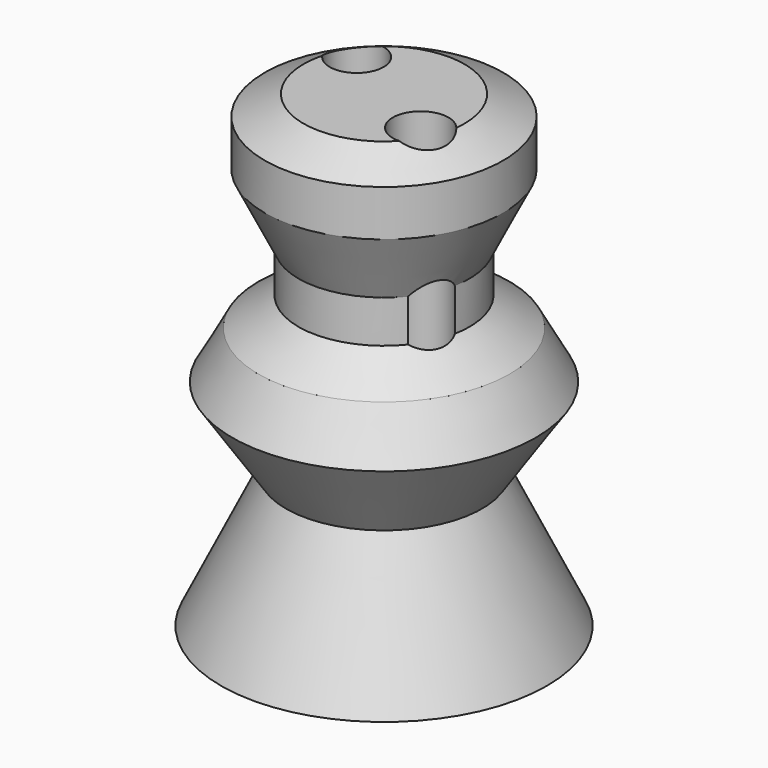
from build123d import *

# Parameters (mm, degrees)
F2_R     = 4.25
F2_R_2   = 4.38658
F3_DEPTH = 63.4


with BuildPart() as f1:
    # F0 (on Front) → F1 (revolve)
    with BuildSketch(Plane.XZ):
        Polygon((0, -26.736645), (0, 46.982642), (-12.679718, 46.982642), (-18.773846, 43.837287), (-18.773846, 36.56365), (-13.466056, 25.751488), (-13.466056, 19.067604), (-19.75677, 14.546155), (-23.885049, 7.075934), (-15.431904, -5.505491), (-25.654312, -26.736645), align=None)
    revolve(axis=Axis((0, 0, 1.768146), (0, 0, -1)))

    # F2 (on face) → F3 (cut)
    with BuildSketch(Plane.XY.offset(46.982642)):
        with Locations((-8.749063, 5.557382)):
            Circle(F2_R)
        with Locations((9.162756, -4.235272)):
            Circle(F2_R_2)
    extrude(amount=-F3_DEPTH, mode=Mode.SUBTRACT)


solid = f1.part
